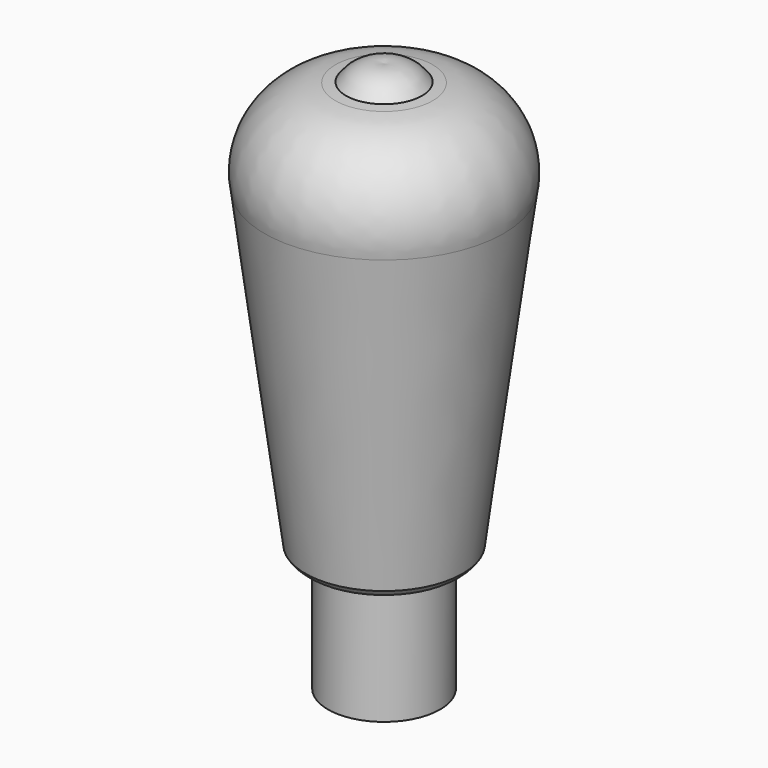
from build123d import *


with BuildPart() as f1:
    # F0 (on Front) → F1 (revolve)
    with BuildSketch(Plane.XZ):
        with BuildLine():
            Line((0, 27.94), (0, 0))
            Line((0, 0), (13.335, 0))
            Line((13.335, 0), (13.335, 27.94))
            Line((13.335, 27.94), (15.875, 27.94))
            ThreePointArc((15.875, 27.94), (17.494737, 28.793452), (18.706733, 30.165673))
            Line((18.706733, 30.165673), (28.448, 104.483135))
            ThreePointArc((28.448, 104.483135), (25.00778, 119.412812), (11.573426, 126.77817))
            Line((11.573426, 126.77817), (9.020732, 126.983041))
            ThreePointArc((9.020732, 126.983041), (5.100598, 130.287789), (0, 130.81))
            Line((0, 130.81), (0, 27.94))
        make_face()
    revolve(axis=Axis((0, 0, 65.405), (0, 0, 1)))


solid = f1.part
